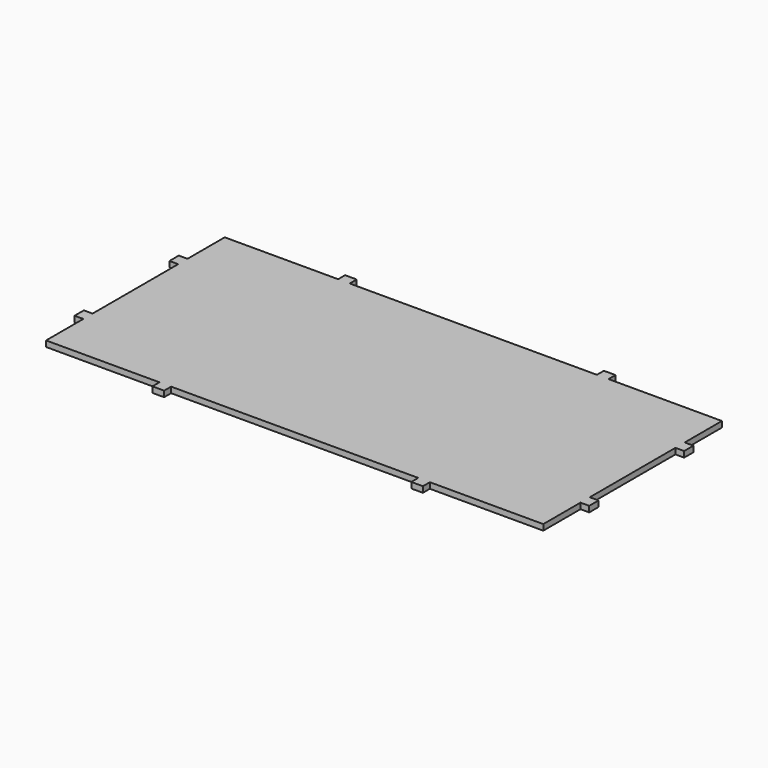
from build123d import *

# Parameters (mm, degrees)
F1_DEPTH = 3.175


with BuildPart() as f1:
    # F0 (on Top) → F1 (new body)
    with BuildSketch(Plane.XY):
        Polygon((-73.81875, 65.7225), (-73.81875, 60.96), (-135.73125, 60.96), (-135.73125, 35.56), (-140.49375, 35.56), (-140.49375, 29.21), (-135.73125, 29.21), (-135.73125, 0), (-135.73125, -29.21), (-140.49375, -29.21), (-140.49375, -35.56), (-135.73125, -35.56), (-135.73125, -60.96), (-73.81875, -60.96), (-73.81875, -65.7225), (-67.46875, -65.7225), (-67.46875, -60.96), (0, -60.96), (67.46875, -60.96), (67.46875, -65.7225), (73.81875, -65.7225), (73.81875, -60.96), (135.73125, -60.96), (135.73125, -35.56), (140.49375, -35.56), (140.49375, -29.21), (135.73125, -29.21), (135.73125, 0), (135.73125, 29.21), (140.49375, 29.21), (140.49375, 35.56), (135.73125, 35.56), (135.73125, 60.96), (73.81875, 60.96), (73.81875, 65.7225), (67.46875, 65.7225), (67.46875, 60.96), (0, 60.96), (-67.46875, 60.96), (-67.46875, 65.7225), align=None)
    extrude(amount=F1_DEPTH)


solid = f1.part
